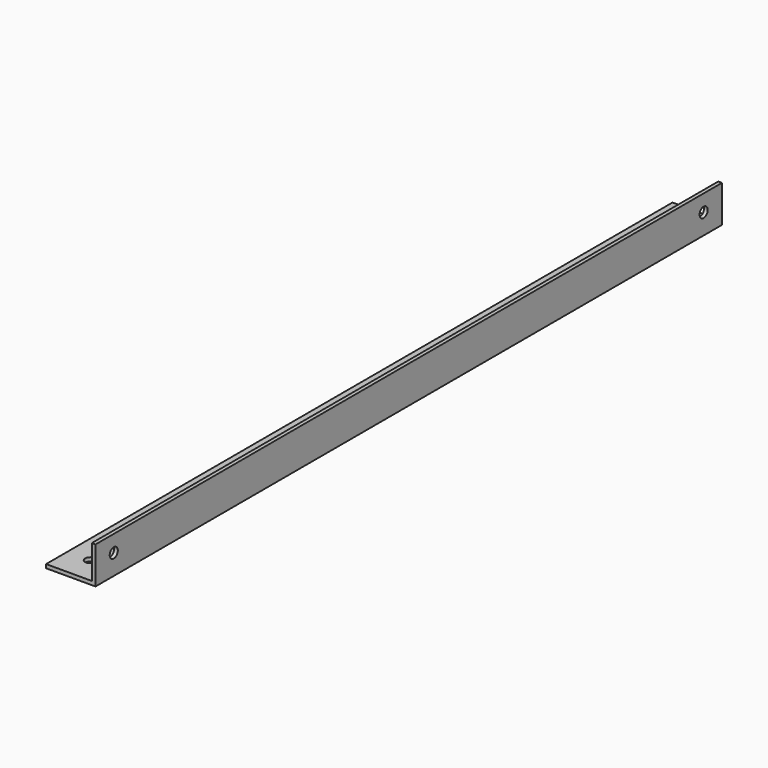
from build123d import *

# Parameters (mm, degrees)
BOX005_W      = 20
BOX005_H      = 317
BOX005_DEPTH  = 13.5
BOX004_W      = 20
BOX004_H      = 317
BOX004_DEPTH  = 15
SKETCH006_R   = 2.05
HOLE001_DEPTH = 638.969553
SKETCH008_R   = 2.05
HOLE003_DEPTH = 637.469553


with BuildPart() as cut016:
    # Box005 → Box005 (new body)
    with BuildSketch(Plane(origin=(1.5, 0, 1.5), x_dir=(1, 0, 0), z_dir=(0, 0, 1))):
        with Locations((10, 158.5)):
            Rectangle(BOX005_W, BOX005_H)
    extrude(amount=BOX005_DEPTH)


with BuildPart() as side_bottom_body:
    # Box004 → Box004 (new body)
    with BuildSketch(Plane.XY):
        with Locations((10, 158.5)):
            Rectangle(BOX004_W, BOX004_H)
    extrude(amount=BOX004_DEPTH)

    # Cut002: cut Cut016
    add(cut016.part, mode=Mode.SUBTRACT)


with BuildPart() as side_bottom_body_1:
    # Cut002 placement: moved
    add(side_bottom_body.part.moved(Location((1.5, 1.5, 21.5))))


with BuildPart() as side_bottom_body_2:
    # BaseFeature001 placement: moved
    add(side_bottom_body_1.part.moved(Location((-1.5, -1.5, -21.5))))

    # Sketch006 → Hole001 (cut, through all)
    with BuildSketch(Plane.YZ.offset(3)):
        with Locations((9.25, 8.25)):
            Circle(SKETCH006_R)
    hole001 = extrude(amount=-HOLE001_DEPTH, mode=Mode.SUBTRACT)

    # Mirrored: Hole001 across Sketch006 Axis0
    add(hole001.mirror(Plane(origin=(3, 158.5, 15), x_dir=(1, 0, 0), z_dir=(0, 1, 0))), mode=Mode.SUBTRACT)

    # Sketch008 → Hole003 (cut, through all)
    with BuildSketch(Plane.XY.offset(1.5)):
        with Locations((10.75, 10.75)):
            Circle(SKETCH008_R)
    hole003 = extrude(amount=-HOLE003_DEPTH, mode=Mode.SUBTRACT)

    # Mirrored001: Hole003 across Sketch008 Axis0
    add(hole003.mirror(Plane(origin=(20, 158.5, 1.5), x_dir=(0, 0, 1), z_dir=(0, -1, 0))), mode=Mode.SUBTRACT)


with BuildPart() as side_bottom_body_3:
    # Body001 placement: moved
    add(side_bottom_body_2.part.moved(Location((1.5, 1.5, 20))))


with BuildPart() as left_bottom_mirror:
    # Part__Mirroring001: instance of side_bottom_body
    add(side_bottom_body_3.part.mirror(Plane(origin=(2e-06, 160, 27.5), x_dir=(0, -1, 0), z_dir=(1, 0, 0))))


with BuildPart() as left_bottom_mirror_1:
    # Part__Mirroring001 placement: moved
    add(left_bottom_mirror.part.moved(Location((640, 0, 0))))


solid = left_bottom_mirror_1.part
